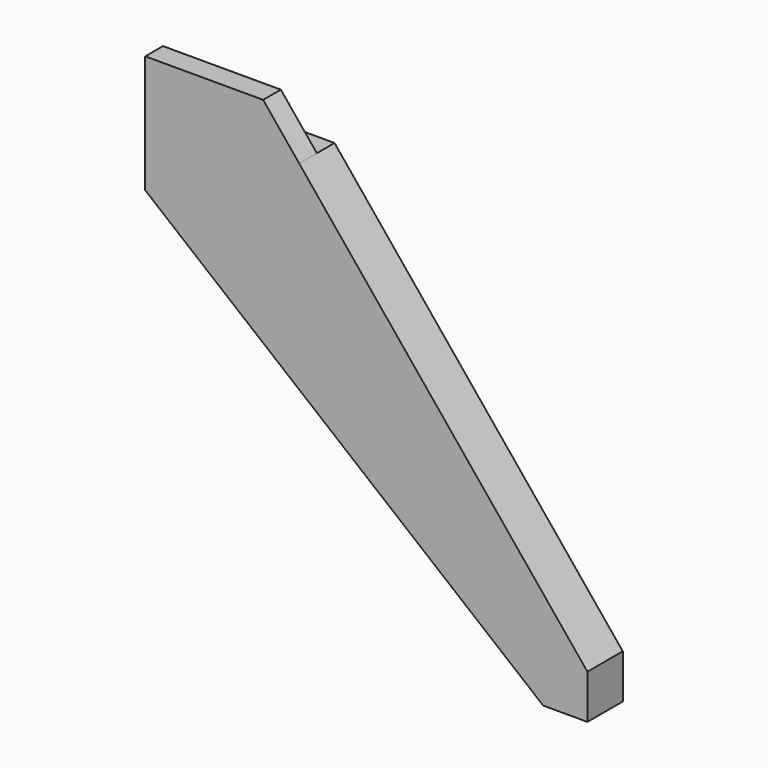
from build123d import *

# Parameters (mm, degrees)
F1_DEPTH = 15
F2_DEPTH = 15


with BuildPart() as f1:
    # F0 (on Front) → F1 (new body)
    with BuildSketch(Plane.XZ):
        Polygon((-79.67066, 96.17432), (-184.115105, 96.17432), (-184.115105, 46.17432), (85.884895, -173.82568), (115.884895, -173.82568), (115.884895, -143.82568), align=None)
        Polygon((-104.115105, 126.17432), (-184.115105, 126.17432), (-184.115105, 96.17432), (-79.67066, 96.17432), align=None)
    extrude(amount=F1_DEPTH)

    # F0 (on Front) → F2 (join)
    with BuildSketch(Plane.XZ):
        Polygon((-79.67066, 96.17432), (-184.115105, 96.17432), (-184.115105, 46.17432), (85.884895, -173.82568), (115.884895, -173.82568), (115.884895, -143.82568), align=None)
    extrude(amount=-F2_DEPTH)


solid = f1.part
